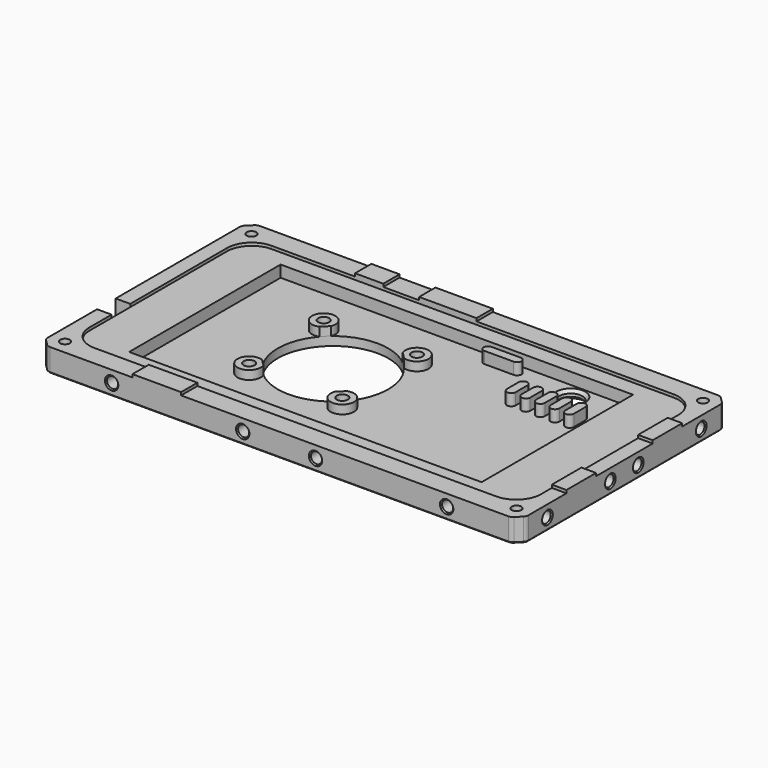
from build123d import *

# Parameters (mm, degrees)
SKETCH011_W     = 165
SKETCH011_H     = 90
PAD001_DEPTH    = 8
SKETCH012_W     = 121
SKETCH012_H     = 65
POCKET009_DEPTH = 5
SKETCH013_W     = 9.7
SKETCH013_H     = 1
SKETCH013_W_2   = 19.7
PAD002_DEPTH    = 7
SKETCH014_W     = 12.7
SKETCH014_H     = 1
PAD003_DEPTH    = 5
SKETCH016_R     = 1.65
POCKET011_DEPTH = 9.001
SKETCH017_R     = 19
SKETCH017_R_2   = 1.9
POCKET012_DEPTH = 9.001
SKETCH020_W     = 155
SKETCH020_H     = 76
POCKET015_DEPTH = 1
SKETCH021_W     = 16.7
SKETCH021_H     = 1
PAD004_DEPTH    = 7
SKETCH023_R     = 4
POCKET017_DEPTH = 8.001
PAD005_DEPTH    = 7
FILLET006_R     = 8.5
CHAMFER006_SIZE = 3
FILLET007_R     = 2
CHAMFER007_SIZE = 0.4
SKETCH025_R     = 1.9
PAD006_DEPTH    = 6
CHAMFER008_SIZE = 1
SKETCH028_R     = 1.9
POCKET020_DEPTH = 10
SKETCH029_R     = 1.9
POCKET021_DEPTH = 10
SKETCH030_R     = 1.9
POCKET022_DEPTH = 10
SKETCH031_R     = 1.9
POCKET023_DEPTH = 10
CHAMFER_SIZE    = 0.4
CHAMFER010_SIZE = 0.4
PAD009_DEPTH    = 7
SKETCH041_W     = 5
SKETCH041_H     = 8
POCKET030_DEPTH = 9.001
CHAMFER026_SIZE = 1


with BuildPart() as part:
    # Sketch011 (on DatumPlane) → Pad001 (new body)
    with BuildSketch(Plane.XY):
        with Locations((77.5, 38)):
            Rectangle(SKETCH011_W, SKETCH011_H)
    extrude(amount=PAD001_DEPTH)

    # Sketch012 (on DatumPlane) → Pocket009 (cut)
    with BuildSketch(Plane.XY.offset(8)):
        with Locations((76.5, 38)):
            Rectangle(SKETCH012_W, SKETCH012_H)
    extrude(amount=-POCKET009_DEPTH, mode=Mode.SUBTRACT)

    # Sketch013 (on DatumPlane) → Pad002 (join)
    with BuildSketch(Plane.XZ.offset(-83)):
        with Locations((42, 8.5)):
            Rectangle(SKETCH013_W, SKETCH013_H)
        with Locations((69, 8.5)):
            Rectangle(SKETCH013_W_2, SKETCH013_H)
    extrude(amount=PAD002_DEPTH)

    # Sketch014 (on DatumPlane) → Pad003 (join)
    with BuildSketch(Plane.YZ.offset(160)):
        with Locations((19.5, 8.5)):
            Rectangle(SKETCH014_W, SKETCH014_H)
        with Locations((56.5, 8.5)):
            Rectangle(SKETCH014_W, SKETCH014_H)
    extrude(amount=-PAD003_DEPTH)

    # Sketch016 (on DatumPlane) → Pocket011 (cut, through all)
    with BuildSketch(Plane.XY):
        with Locations((0, 78)):
            Circle(SKETCH016_R)
        with Locations((155, 78)):
            Circle(SKETCH016_R)
        with Locations((155, -2)):
            Circle(SKETCH016_R)
        with Locations((0, -2)):
            Circle(SKETCH016_R)
    extrude(amount=POCKET011_DEPTH, mode=Mode.SUBTRACT)

    # Sketch017 (on DatumPlane) → Pocket012 (cut, through all)
    with BuildSketch(Plane.XY):
        with Locations((60, 38)):
            Circle(SKETCH017_R)
        with Locations((44, 54)):
            Circle(SKETCH017_R_2)
        with Locations((76, 54)):
            Circle(SKETCH017_R_2)
        with Locations((76, 22)):
            Circle(SKETCH017_R_2)
        with Locations((44, 22)):
            Circle(SKETCH017_R_2)
    extrude(amount=POCKET012_DEPTH, mode=Mode.SUBTRACT)

    # Sketch020 (on DatumPlane) → Pocket015 (cut)
    with BuildSketch(Plane.XY.offset(8)):
        with Locations((77.5, 38)):
            Rectangle(SKETCH020_W, SKETCH020_H)
    extrude(amount=-POCKET015_DEPTH, mode=Mode.SUBTRACT)

    # Sketch021 (on DatumPlane) → Pad004 (join)
    with BuildSketch(Plane.XZ.offset(7)):
        with Locations((35.5, 8.5)):
            Rectangle(SKETCH021_W, SKETCH021_H)
    extrude(amount=-PAD004_DEPTH)

    # Sketch023 (on DatumPlane) → Pocket017 (cut, through all)
    with BuildSketch(Plane.XY.offset(8)):
        with Locations((120, 65)):
            Circle(SKETCH023_R)
    extrude(amount=-POCKET017_DEPTH, mode=Mode.SUBTRACT)

    # Sketch024 (on DatumPlane) → Pad005 (join)
    with BuildSketch(Plane.XY):
        with BuildLine():
            ThreePointArc((116.5, 57), (115, 58.5), (113.5, 57))
            Line((113.5, 57), (113.5, 52))
            ThreePointArc((113.5, 52), (115, 50.5), (116.5, 52))
            Line((116.5, 57), (116.5, 52))
        make_face()
        with BuildLine():
            ThreePointArc((111.5, 57), (110, 58.5), (108.5, 57))
            Line((108.5, 57), (108.5, 52))
            ThreePointArc((108.5, 52), (110, 50.5), (111.5, 52))
            Line((111.5, 57), (111.5, 52))
        make_face()
        with BuildLine():
            ThreePointArc((126.5, 57), (125, 58.5), (123.5, 57))
            Line((123.5, 57), (123.5, 52))
            ThreePointArc((123.5, 52), (125, 50.5), (126.5, 52))
            Line((126.5, 57), (126.5, 52))
        make_face()
        with BuildLine():
            ThreePointArc((131.5, 57), (130, 58.5), (128.5, 57))
            Line((128.5, 57), (128.5, 52))
            ThreePointArc((128.5, 52), (130, 50.5), (131.5, 52))
            Line((131.5, 57), (131.5, 52))
        make_face()
        with BuildLine():
            ThreePointArc((121.5, 57), (120, 58.5), (118.5, 57))
            Line((118.5, 57), (118.5, 52))
            ThreePointArc((118.5, 52), (120, 50.5), (121.5, 52))
            Line((121.5, 57), (121.5, 52))
        make_face()
    extrude(amount=PAD005_DEPTH)

    # Fillet006
    fillet006_edges = [part.edges().sort_by_distance(p)[0] for p in [
        (0, 76, 7.5),
        (0, 0, 7.5),
        (155, 0, 7.5),
        (155, 76, 7.5),
    ]]
    fillet(fillet006_edges, radius=FILLET006_R)

    # Chamfer006
    chamfer006_edges = [part.edges().sort_by_distance(p)[0] for p in [
        (-5, 83, 4),
        (-5, -7, 4),
        (160, -7, 4),
        (160, 83, 4),
    ]]
    chamfer(chamfer006_edges, length=CHAMFER006_SIZE)

    # Fillet007
    fillet007_edges = [part.edges().sort_by_distance(p)[0] for p in [
        (-5, -4, 4),
        (-2, -7, 4),
        (157, -7, 4),
        (160, -4, 4),
        (160, 80, 4),
        (157, 83, 4),
        (-2, 83, 4),
        (-5, 80, 4),
    ]]
    fillet(fillet007_edges, radius=FILLET007_R)

    # Chamfer007
    chamfer007_edges = [part.edges().sort_by_distance(p)[0] for p in [
        (77.5, 83, 0),
        (-1.93694, 82.847759, 0),
        (-3.5, 81.5, 0),
        (-4.847759, 79.93694, 0),
        (-5, 38, 0),
        (-1.65, 78, 0),
        (-4.847759, -3.93694, 0),
        (-1.65, -2, 0),
        (-3.5, -5.5, 0),
        (-1.93694, -6.847759, 0),
        (77.5, -7, 0),
        (156.93694, -6.847759, 0),
        (158.5, -5.5, 0),
        (159.847759, -3.93694, 0),
        (160, 38, 0),
        (153.35, -2, 0),
        (156.93694, 82.847759, 0),
        (158.5, 81.5, 0),
        (159.847759, 79.93694, 0),
        (153.35, 78, 0),
    ]]
    chamfer(chamfer007_edges, length=CHAMFER007_SIZE)

    # Sketch025 (on DatumPlane) → Pad006 (join)
    with BuildSketch(Plane.XY):
        with BuildLine():
            ThreePointArc((45.517971, 25.700779), (46.564971, 24.564971), (47.700779, 23.517971))
            ThreePointArc((45.517971, 25.700779), (41.171573, 19.171573), (47.700779, 23.517971))
        make_face()
        with Locations((44, 22)):
            Circle(SKETCH025_R, mode=Mode.SUBTRACT)
        with BuildLine():
            ThreePointArc((47.700779, 52.482029), (41.171573, 56.828427), (45.517971, 50.299221))
            ThreePointArc((47.700779, 52.482029), (46.564971, 51.435029), (45.517971, 50.299221))
        make_face()
        with Locations((44, 54)):
            Circle(SKETCH025_R, mode=Mode.SUBTRACT)
        with BuildLine():
            ThreePointArc((74.482029, 50.299221), (78.828427, 56.828427), (72.299221, 52.482029))
            ThreePointArc((74.482029, 50.299221), (73.435029, 51.435029), (72.299221, 52.482029))
        make_face()
        with Locations((76, 54)):
            Circle(SKETCH025_R, mode=Mode.SUBTRACT)
        with BuildLine():
            ThreePointArc((72.299221, 23.517971), (78.828427, 19.171573), (74.482029, 25.700779))
            ThreePointArc((72.299221, 23.517971), (73.435029, 24.564971), (74.482029, 25.700779))
        make_face()
        with Locations((76, 22)):
            Circle(SKETCH025_R, mode=Mode.SUBTRACT)
    extrude(amount=PAD006_DEPTH)

    # Chamfer008
    chamfer008_edges = [part.edges().sort_by_distance(p)[0] for p in [
        (116, 65, 3),
        (116, 65, 0),
    ]]
    chamfer(chamfer008_edges, length=CHAMFER008_SIZE)

    # Sketch028 (on DatumPlane) → Pocket020 (cut)
    with BuildSketch(Plane.XZ.offset(7)):
        with Locations((20, 4)):
            Circle(SKETCH028_R)
        with Locations((65, 4)):
            Circle(SKETCH028_R)
        with Locations((90, 4)):
            Circle(SKETCH028_R)
        with Locations((135, 4)):
            Circle(SKETCH028_R)
    extrude(amount=-POCKET020_DEPTH, mode=Mode.SUBTRACT)

    # Sketch029 (on DatumPlane) → Pocket021 (cut)
    with BuildSketch(Plane.XZ.offset(-83)):
        with Locations((20, 4)):
            Circle(SKETCH029_R)
        with Locations((135, 4)):
            Circle(SKETCH029_R)
        with Locations((90, 4)):
            Circle(SKETCH029_R)
    extrude(amount=POCKET021_DEPTH, mode=Mode.SUBTRACT)

    # Sketch030 (on DatumPlane) → Pocket022 (cut)
    with BuildSketch(Plane.YZ.offset(160)):
        with Locations((5, 4)):
            Circle(SKETCH030_R)
        with Locations((32, 4)):
            Circle(SKETCH030_R)
        with Locations((44, 4)):
            Circle(SKETCH030_R)
        with Locations((71, 4)):
            Circle(SKETCH030_R)
    extrude(amount=-POCKET022_DEPTH, mode=Mode.SUBTRACT)

    # Sketch031 (on DatumPlane) → Pocket023 (cut)
    with BuildSketch(Plane.YZ.offset(-5)):
        with Locations((5, 4)):
            Circle(SKETCH031_R)
        with Locations((32, 4)):
            Circle(SKETCH031_R)
        with Locations((44, 4)):
            Circle(SKETCH031_R)
        with Locations((71, 4)):
            Circle(SKETCH031_R)
    extrude(amount=POCKET023_DEPTH, mode=Mode.SUBTRACT)

    # Chamfer
    chamfer_edges = [part.edges().sort_by_distance(p)[0] for p in [
        (-5, 69.1, 4),
        (-5, 42.1, 4),
        (-5, 30.1, 4),
        (-5, 3.1, 4),
        (18.1, -7, 4),
        (63.1, -7, 4),
        (88.1, -7, 4),
        (133.1, -7, 4),
        (160, 3.1, 4),
        (160, 30.1, 4),
        (160, 42.1, 4),
        (160, 69.1, 4),
        (133.1, 83, 4),
        (88.1, 83, 4),
        (18.1, 83, 4),
    ]]
    chamfer(chamfer_edges, length=CHAMFER_SIZE)

    # Chamfer010
    chamfer010_edges = [part.edges().sort_by_distance(p)[0] for p in [
        (42.1, 54, 0),
        (42.1, 22, 0),
        (74.1, 54, 0),
        (74.1, 22, 0),
    ]]
    chamfer(chamfer010_edges, length=CHAMFER010_SIZE)

    # Sketch040 (on DatumPlane) → Pad009 (join)
    with BuildSketch(Plane.XY):
        with BuildLine():
            ThreePointArc((90, 68.5), (88.5, 67), (90, 65.5))
            Line((90, 65.5), (100, 65.5))
            ThreePointArc((100, 65.5), (101.5, 67), (100, 68.5))
            Line((90, 68.5), (100, 68.5))
        make_face()
    extrude(amount=PAD009_DEPTH)

    # Sketch041 (on DatumPlane) → Pocket030 (cut, through all)
    with BuildSketch(Plane.XY):
        with Locations((-2.5, 22)):
            Rectangle(SKETCH041_W, SKETCH041_H)
    extrude(amount=POCKET030_DEPTH, mode=Mode.SUBTRACT)

    # Chamfer026
    chamfer026_edges = [part.edges().sort_by_distance(p)[0] for p in [
        (0, 22, 0),
    ]]
    chamfer(chamfer026_edges, length=CHAMFER026_SIZE)


with BuildPart() as part_1:
    # Body002 placement: moved
    add(part.part.moved(Location((0, 0, -8))))


solid = part_1.part
